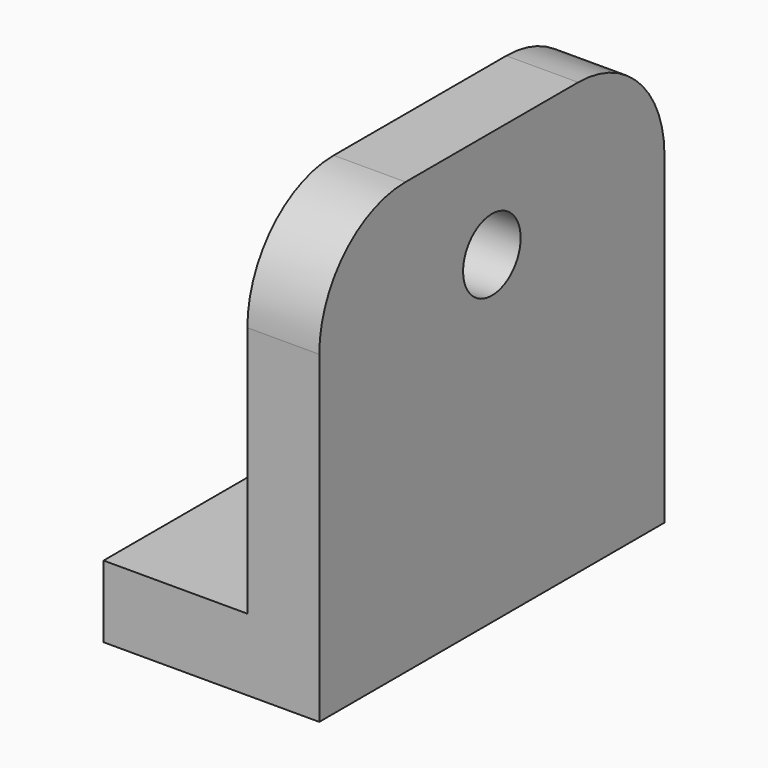
from build123d import *

# Parameters (mm, degrees)
F1_DEPTH  = 76.2
F2_R      = 12.7
F3_DEPTH  = 76.201
F5_DEPTH  = 152.401
F6_R      = 38.1
F7_R      = 15.875
F8_DEPTH  = 6.35
F11_DEPTH = 12.7
F13_SIZE  = 1.524


with BuildPart() as f1:
    # F0 (on Front) → F1 (new body, symmetric)
    with BuildSketch(Plane.XZ):
        Polygon((-76.2, 0), (0, 0), (0, 152.4), (-25.4, 152.4), (-25.4, 25.4), (-76.2, 25.4), align=None)
    extrude(amount=F1_DEPTH, both=True)

    # F2 (on face) → F3 (cut, through all)
    with BuildSketch(Plane.YZ):
        with Locations((0, 114.3)):
            Circle(F2_R)
    extrude(amount=-F3_DEPTH, mode=Mode.SUBTRACT)

    # F4 (on face) → F5 (cut, through all)
    with BuildSketch(Plane(origin=(0, 0, 0), x_dir=(1, 0, 0), z_dir=(0, 0, -1))):
        with BuildLine():
            Line((-76.2, 12.7), (-76.2, -12.7))
            Line((-76.2, -12.7), (-63.5, -12.7))
            ThreePointArc((-63.5, -12.7), (-50.8, 0), (-63.5, 12.7))
            Line((-63.5, 12.7), (-76.2, 12.7))
        make_face()
    extrude(amount=-F5_DEPTH, mode=Mode.SUBTRACT)

    # F6
    f6_edges = [f1.edges().sort_by_distance(p)[0] for p in [
        (-12.7, 76.2, 152.4),
        (-12.7, -76.2, 152.4),
    ]]
    fillet(f6_edges, radius=F6_R)

    # F7 (on face) → F8 (cut)
    with BuildSketch(Plane(origin=(-25.4, 0, 0), x_dir=(0, -1, 0), z_dir=(-1, 0, 0))):
        with Locations((0, 114.3)):
            Circle(F7_R)
    extrude(amount=-F8_DEPTH, mode=Mode.SUBTRACT)

    # F10 (on offset) → F11 (join)
    with BuildSketch(Plane.XZ.offset(31.75)):
        Polygon((-25.4, 101.6), (-50.8, 25.4), (-25.4, 25.4), align=None)
    extrude(amount=F11_DEPTH)

    # F12: F1 across plane


with BuildPart() as f1_1:
    add(f1.part)
    add(f1.part.mirror(Plane.XZ))

    # F13
    f13_edges = [f1_1.edges().sort_by_distance(p)[0] for p in [
        (-25.4, 15.875, 114.3),
        (-19.05, -12.7, 114.3),
    ]]
    chamfer(f13_edges, length=F13_SIZE)


solid = f1_1.part
